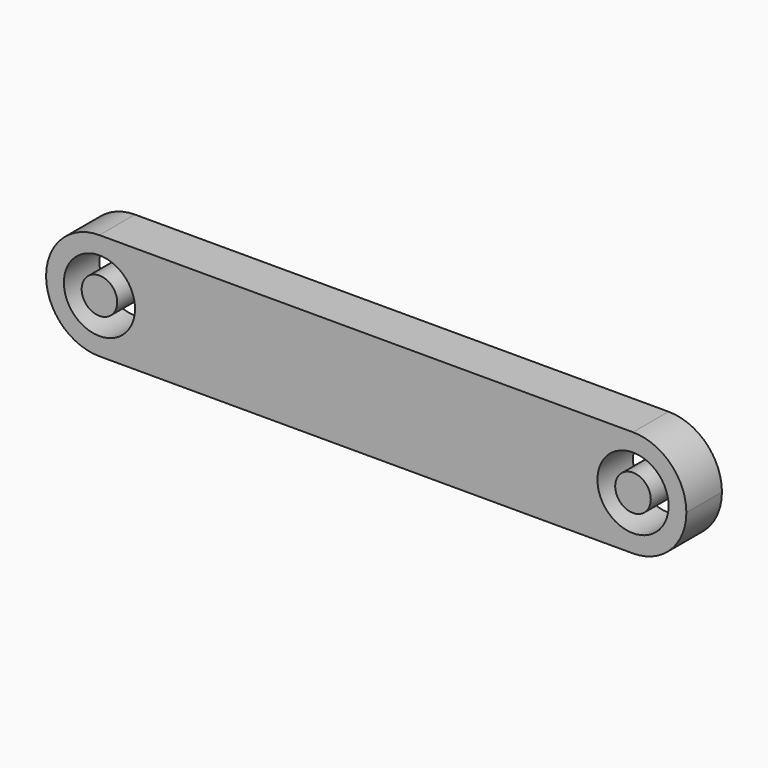
from build123d import *

# Parameters (mm, degrees)
F0_R     = 4
F1_DEPTH = 5
F0_R_2   = 2


with BuildPart() as f1:
    # F0 (on Front) → F1 (new body)
    with BuildSketch(Plane.XZ):
        with BuildLine():
            ThreePointArc((-30, 6), (-25.7573593129, 4.2426406871), (-24, 0))
            ThreePointArc((-24, 0), (-25.7573593129, -4.2426406871), (-30, -6))
            Line((-30, -6), (0, -6))
            Line((0, -6), (30, -6))
            ThreePointArc((30, -6), (24, 0), (30, 6))
            Line((30, 6), (0, 6))
            Line((0, 6), (-30, 6))
        make_face()
        with BuildLine():
            ThreePointArc((-30, -6), (-25.7573593129, -4.2426406871), (-24, 0))
            ThreePointArc((-24, 0), (-25.7573593129, 4.2426406871), (-30, 6))
            ThreePointArc((-30, 6), (-36, 0), (-30, -6))
        make_face()
        with Locations((-30, 0)):
            Circle(F0_R, mode=Mode.SUBTRACT)
        with BuildLine():
            ThreePointArc((36, 0), (34.2426406871, 4.2426406871), (30, 6))
            ThreePointArc((30, 6), (24, 0), (30, -6))
            ThreePointArc((30, -6), (34.2426406871, -4.2426406871), (36, 0))
        make_face()
        with Locations((30, 0)):
            Circle(F0_R, mode=Mode.SUBTRACT)
    extrude(amount=F1_DEPTH)


with BuildPart() as f1b:
    # F0 (on Front) → F1, piece 2 (new body)
    with BuildSketch(Plane.XZ):
        with Locations((-30, 0)):
            Circle(F0_R_2)
    extrude(amount=F1_DEPTH)


with BuildPart() as f1c:
    # F0 (on Front) → F1, piece 3 (new body)
    with BuildSketch(Plane.XZ):
        with Locations((30, 0)):
            Circle(F0_R_2)
    extrude(amount=F1_DEPTH)


solid = Compound([f1.part, f1b.part, f1c.part])
